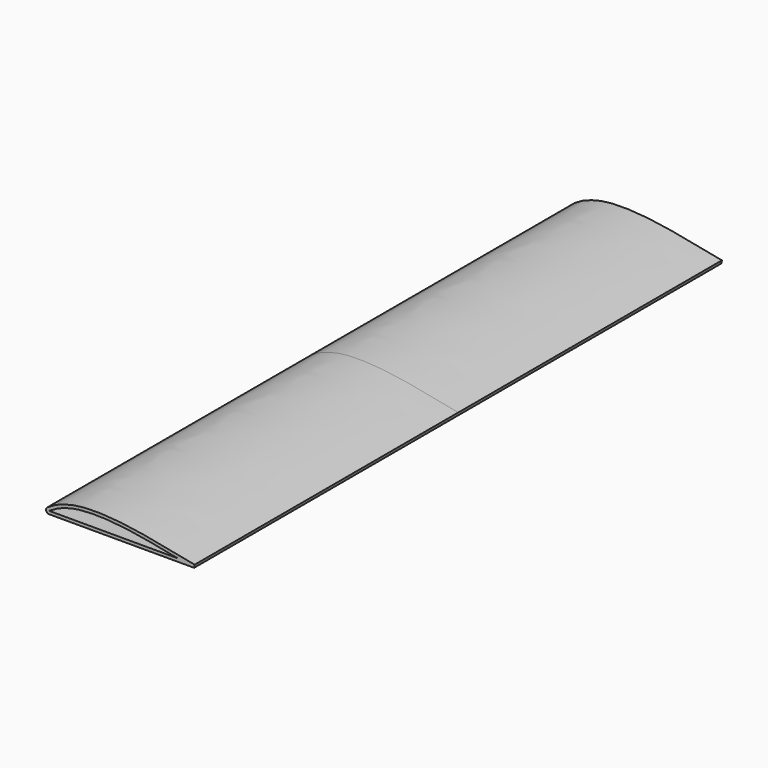
from build123d import *

# Parameters (mm, degrees)
F1_DEPTH = 325


with BuildPart() as f1:
    # F0 (on Front) → F1 (new body, symmetric)
    with BuildSketch(Plane.XZ):
        with BuildLine():
            Line((0, -3), (0, 0))
            add(Edge.make_bspline(
                [(0, 0), (4.976529694, 2.9294076189), (8.0464472722, 4.9259260486), (25.0135125986, 11.1897274422), (45.0405023319, 11.6111564879), (56, 11.0321840118)],
                knots=[0, 0, 0, 0, 0.1482248323, 0.3426833242, 0.5601257706, 0.5601257706, 0.5601257706, 0.5601257706], degree=3))
            add(Edge.make_bspline(
                [(56, 11.0321840118), (60.3082527523, 10.8045860107), (82.7866761058, 8.9960203801), (104.0881206975, 4.4945010838), (127, 0)],
                knots=[0.5601257706, 0.5601257706, 0.5601257706, 0.5601257706, 0.6456038689, 1, 1, 1, 1], degree=3))
            Line((127, 0), (143, -3))
            Line((143, -3), (143.5528656052, -0.0513834392))
            add(Edge.make_bspline(
                [(143.5528656052, -0.0513834392), (104.6170089124, 7.519433537), (76.2328083292, 13.6355347634), (27.5722921413, 15.5947670577), (5.44223627, 6.8844900424), (5.8778529614, 6.8576816047), (-1.5, 2.5980762114)],
                knots=[0, 0, 0, 0, 0.3798438193, 0.6693894984, 0.8575358074, 1, 1, 1, 1], degree=3))
            ThreePointArc((-1.5, 2.5980762114), (-2.7716385975, 1.1480502971), (-2.8977774789, -0.7764571353))
            ThreePointArc((-2.8977774789, -0.7764571353), (-1.826284287, -2.3800600209), (0, -3))
        make_face()
        Polygon((9, 0), (0, 0), (0, -3), (143, -3), (127, 0), (102, 0), (69, 0), (60, 0), (56, 0), (51, 0), (26, 0), align=None)
    extrude(amount=F1_DEPTH, both=True)


solid = f1.part
